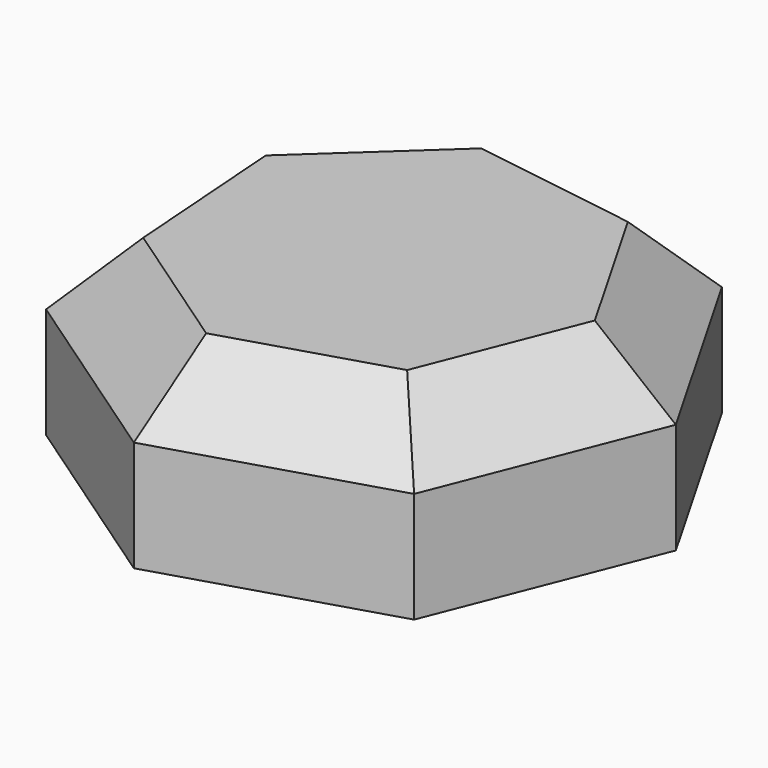
from build123d import *

# Parameters (mm, degrees)
F1_DEPTH = 13.208
F2_SIZE  = 5.08


with BuildPart() as f1:
    # F0 (on Top) → F1 (new body)
    with BuildSketch(Plane.XY):
        Polygon((19.876294, 1.443103), (11.264403, 16.439672), (-5.829813, 19.056833), (-18.534061, 7.323809), (-17.281783, -9.924192), (-3.01597, -19.699074), (13.52093, -14.640152), align=None)
    extrude(amount=F1_DEPTH)

    # F2
    f2_edges = [f1.edges().sort_by_distance(p)[0] for p in [
        (-17.907922, -1.300191, 13.208),
        (-10.148876, -14.811633, 13.208),
        (5.25248, -17.169613, 13.208),
        (16.698612, -6.598524, 13.208),
        (15.570348, 8.941388, 13.208),
        (2.717295, 17.748252, 13.208),
        (-12.181937, 13.190321, 13.208),
    ]]
    chamfer(f2_edges, length=F2_SIZE)


solid = f1.part
